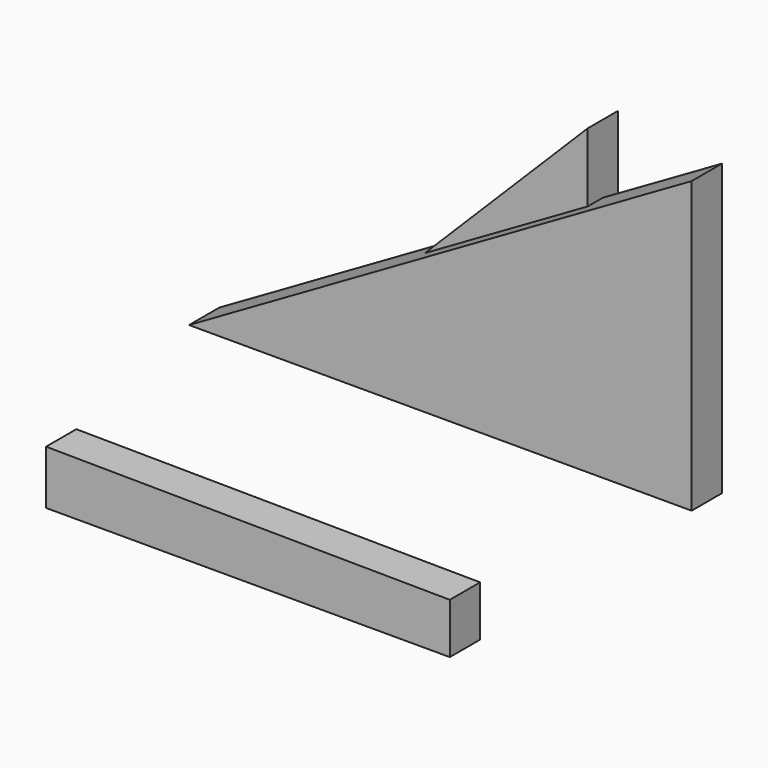
from build123d import *

# Parameters (mm, degrees)
F1_DEPTH = 9.525
F3_DEPTH = 4.7625


with BuildPart() as f1:
    # F0 (on Front) → F1 (new body)
    with BuildSketch(Plane.XZ):
        Polygon((66.80545, 73.025), (-59.67756, 0), (66.80545, 0), align=None)
    extrude(amount=F1_DEPTH)


with BuildPart() as f3:
    # F2 (on Front) → F3 (new body, symmetric)
    with BuildSketch(Plane.XZ):
        Polygon((36.830773, 73.025), (-36.194227, 0), (36.830773, 0), align=None)
        Polygon((-99.459432, -41.811982), (-99.459432, -55.398632), (2.140568, -55.398632), (2.140568, -42.698632), align=None)
    extrude(amount=F3_DEPTH, both=True)


solid = Compound([f1.part, f3.part])
